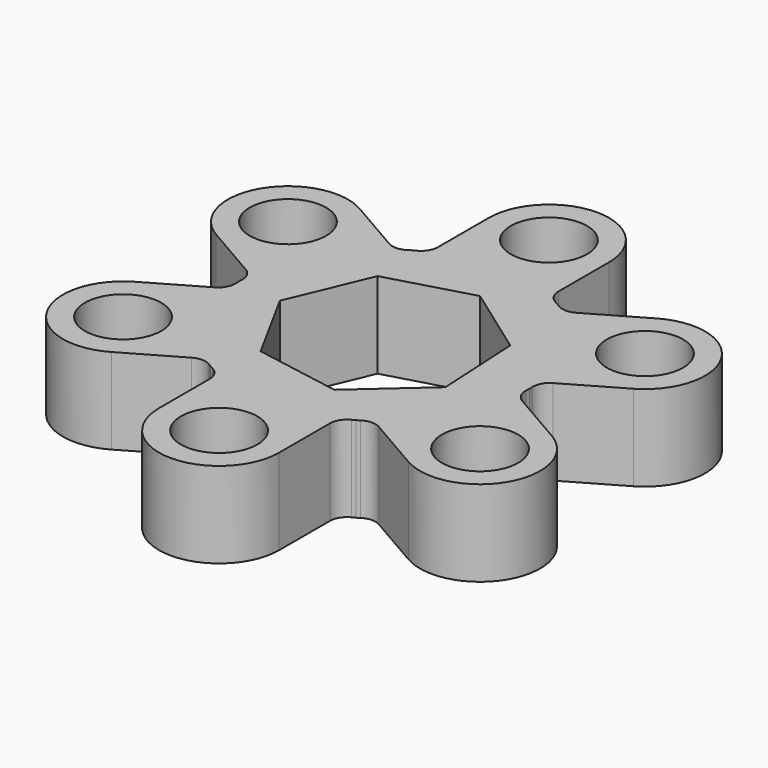
from build123d import *

# Parameters (mm, degrees)
F0_R     = 4.45
F1_DEPTH = 1
F2_DEPTH = 9


with BuildPart() as f1:
    # F0 (on Top) → F1 (new body)
    with BuildSketch(Plane.XY):
        with BuildLine():
            Line((7, 16.621875), (7, 24))
            ThreePointArc((7, 24), (0, 31), (-7, 24))
            Line((-7, 24), (-7, 16.623332))
            ThreePointArc((-7, 16.623332), (-7.292718, 15.581609), (-8.085187, 14.844817))
            Line((-8.085187, 14.844817), (-8.459499, 14.652282))
            Line((-8.459499, 14.652282), (-8.806915, 14.427029))
            ThreePointArc((-8.806915, 14.427029), (-9.843343, 14.105833), (-10.894966, 14.373115))
            Line((-10.894966, 14.373115), (-17.28461, 18.062178))
            ThreePointArc((-17.28461, 18.062178), (-26.846788, 15.5), (-24.28461, 5.937822))
            Line((-24.28461, 5.937822), (-17.896228, 2.249488))
            ThreePointArc((-17.896228, 2.249488), (-17.140428, 1.475126), (-16.898582, 0.420431))
            Line((-16.898582, 0.420431), (-16.918998, 0))
            Line((-16.918998, 0), (-16.897631, -0.413498))
            ThreePointArc((-16.897631, -0.413498), (-17.137681, -1.471669), (-17.894966, -2.24876))
            Line((-17.894966, -2.24876), (-24.28461, -5.937822))
            ThreePointArc((-24.28461, -5.937822), (-26.846788, -15.5), (-17.28461, -18.062178))
            Line((-17.28461, -18.062178), (-10.896228, -14.373844))
            ThreePointArc((-10.896228, -14.373844), (-9.84771, -14.106483), (-8.813395, -14.424386))
            Line((-8.813395, -14.424386), (-8.459499, -14.652282))
            Line((-8.459499, -14.652282), (-8.090716, -14.840527))
            ThreePointArc((-8.090716, -14.840527), (-7.294338, -15.577502), (-7, -16.621875))
            Line((-7, -16.621875), (-7, -24))
            ThreePointArc((-7, -24), (0, -31), (7, -24))
            Line((7, -24), (7, -16.623332))
            ThreePointArc((7, -16.623332), (7.292718, -15.581609), (8.085187, -14.844817))
            Line((8.085187, -14.844817), (8.459499, -14.652282))
            Line((8.459499, -14.652282), (8.806915, -14.427029))
            ThreePointArc((8.806915, -14.427029), (9.843343, -14.105833), (10.894966, -14.373115))
            Line((10.894966, -14.373115), (17.28461, -18.062178))
            ThreePointArc((17.28461, -18.062178), (26.846788, -15.5), (24.28461, -5.937822))
            Line((24.28461, -5.937822), (17.896228, -2.249488))
            ThreePointArc((17.896228, -2.249488), (17.140428, -1.475126), (16.898582, -0.420431))
            Line((16.898582, -0.420431), (16.918998, 0))
            Line((16.918998, 0), (16.897631, 0.413498))
            ThreePointArc((16.897631, 0.413498), (17.137681, 1.471669), (17.894966, 2.24876))
            Line((17.894966, 2.24876), (24.28461, 5.937822))
            ThreePointArc((24.28461, 5.937822), (26.846788, 15.5), (17.28461, 18.062178))
            Line((17.28461, 18.062178), (10.896228, 14.373844))
            ThreePointArc((10.896228, 14.373844), (9.84771, 14.106483), (8.813395, 14.424386))
            Line((8.813395, 14.424386), (8.459499, 14.652282))
            Line((8.459499, 14.652282), (8.090716, 14.840527))
            ThreePointArc((8.090716, 14.840527), (7.294338, 15.577502), (7, 16.621875))
        make_face()
        with Locations((-20.78461, -12)):
            Circle(F0_R, mode=Mode.SUBTRACT)
        with Locations((0, -24)):
            Circle(F0_R, mode=Mode.SUBTRACT)
        with Locations((20.78461, -12)):
            Circle(F0_R, mode=Mode.SUBTRACT)
        with Locations((-20.78461, 12)):
            Circle(F0_R, mode=Mode.SUBTRACT)
        Polygon((10.221317, 5.598501), (10.749971, -4.500739), (3.183678, -11.210831), (-6.77999, -9.478938), (-11.638187, -0.609212), (-7.732592, 8.719263), (1.995802, 11.481956), align=None, mode=Mode.SUBTRACT)
        with Locations((20.78461, 12)):
            Circle(F0_R, mode=Mode.SUBTRACT)
        with Locations((0, 24)):
            Circle(F0_R, mode=Mode.SUBTRACT)
        with Locations((-20.78461, 12)):
            Circle(F0_R)
        with Locations((0, 24)):
            Circle(F0_R)
        with Locations((20.78461, 12)):
            Circle(F0_R)
        with Locations((20.78461, -12)):
            Circle(F0_R)
        with Locations((0, -24)):
            Circle(F0_R)
        with Locations((-20.78461, -12)):
            Circle(F0_R)
    extrude(amount=-F1_DEPTH)

    # F0 (on Top) → F2 (join)
    with BuildSketch(Plane.XY):
        with BuildLine():
            Line((7, 16.621875), (7, 24))
            ThreePointArc((7, 24), (0, 31), (-7, 24))
            Line((-7, 24), (-7, 16.623332))
            ThreePointArc((-7, 16.623332), (-7.292718, 15.581609), (-8.085187, 14.844817))
            Line((-8.085187, 14.844817), (-8.459499, 14.652282))
            Line((-8.459499, 14.652282), (-8.806915, 14.427029))
            ThreePointArc((-8.806915, 14.427029), (-9.843343, 14.105833), (-10.894966, 14.373115))
            Line((-10.894966, 14.373115), (-17.28461, 18.062178))
            ThreePointArc((-17.28461, 18.062178), (-26.846788, 15.5), (-24.28461, 5.937822))
            Line((-24.28461, 5.937822), (-17.896228, 2.249488))
            ThreePointArc((-17.896228, 2.249488), (-17.140428, 1.475126), (-16.898582, 0.420431))
            Line((-16.898582, 0.420431), (-16.918998, 0))
            Line((-16.918998, 0), (-16.897631, -0.413498))
            ThreePointArc((-16.897631, -0.413498), (-17.137681, -1.471669), (-17.894966, -2.24876))
            Line((-17.894966, -2.24876), (-24.28461, -5.937822))
            ThreePointArc((-24.28461, -5.937822), (-26.846788, -15.5), (-17.28461, -18.062178))
            Line((-17.28461, -18.062178), (-10.896228, -14.373844))
            ThreePointArc((-10.896228, -14.373844), (-9.84771, -14.106483), (-8.813395, -14.424386))
            Line((-8.813395, -14.424386), (-8.459499, -14.652282))
            Line((-8.459499, -14.652282), (-8.090716, -14.840527))
            ThreePointArc((-8.090716, -14.840527), (-7.294338, -15.577502), (-7, -16.621875))
            Line((-7, -16.621875), (-7, -24))
            ThreePointArc((-7, -24), (0, -31), (7, -24))
            Line((7, -24), (7, -16.623332))
            ThreePointArc((7, -16.623332), (7.292718, -15.581609), (8.085187, -14.844817))
            Line((8.085187, -14.844817), (8.459499, -14.652282))
            Line((8.459499, -14.652282), (8.806915, -14.427029))
            ThreePointArc((8.806915, -14.427029), (9.843343, -14.105833), (10.894966, -14.373115))
            Line((10.894966, -14.373115), (17.28461, -18.062178))
            ThreePointArc((17.28461, -18.062178), (26.846788, -15.5), (24.28461, -5.937822))
            Line((24.28461, -5.937822), (17.896228, -2.249488))
            ThreePointArc((17.896228, -2.249488), (17.140428, -1.475126), (16.898582, -0.420431))
            Line((16.898582, -0.420431), (16.918998, 0))
            Line((16.918998, 0), (16.897631, 0.413498))
            ThreePointArc((16.897631, 0.413498), (17.137681, 1.471669), (17.894966, 2.24876))
            Line((17.894966, 2.24876), (24.28461, 5.937822))
            ThreePointArc((24.28461, 5.937822), (26.846788, 15.5), (17.28461, 18.062178))
            Line((17.28461, 18.062178), (10.896228, 14.373844))
            ThreePointArc((10.896228, 14.373844), (9.84771, 14.106483), (8.813395, 14.424386))
            Line((8.813395, 14.424386), (8.459499, 14.652282))
            Line((8.459499, 14.652282), (8.090716, 14.840527))
            ThreePointArc((8.090716, 14.840527), (7.294338, 15.577502), (7, 16.621875))
        make_face()
        with Locations((-20.78461, -12)):
            Circle(F0_R, mode=Mode.SUBTRACT)
        with Locations((0, -24)):
            Circle(F0_R, mode=Mode.SUBTRACT)
        with Locations((20.78461, -12)):
            Circle(F0_R, mode=Mode.SUBTRACT)
        with Locations((-20.78461, 12)):
            Circle(F0_R, mode=Mode.SUBTRACT)
        Polygon((10.221317, 5.598501), (10.749971, -4.500739), (3.183678, -11.210831), (-6.77999, -9.478938), (-11.638187, -0.609212), (-7.732592, 8.719263), (1.995802, 11.481956), align=None, mode=Mode.SUBTRACT)
        with Locations((20.78461, 12)):
            Circle(F0_R, mode=Mode.SUBTRACT)
        with Locations((0, 24)):
            Circle(F0_R, mode=Mode.SUBTRACT)
    extrude(amount=F2_DEPTH)


solid = f1.part
